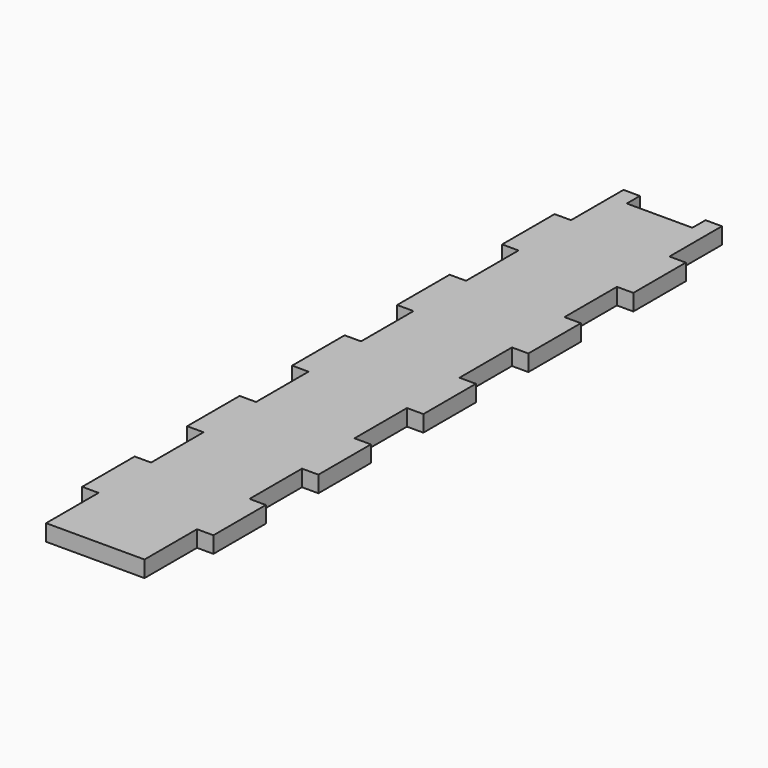
from build123d import *

# Parameters (mm, degrees)
F0_W     = 38.1
F0_H     = 279.4
F1_DEPTH = 6.35
F2_W     = 25.4
F2_H     = 6.35
F4_DEPTH = 6.35
F3_W     = 25.4
F3_H     = 6.35
F5_DEPTH = 6.35
F6_W     = 25.4
F6_H     = 6.35
F7_DEPTH = 6.35


with BuildPart() as f1:
    # F0 (on Top) → F1 (new body)
    with BuildSketch(Plane.XY):
        with Locations((19.05, 139.7)):
            Rectangle(F0_W, F0_H)
    extrude(amount=F1_DEPTH)

    # F2 (on face) → F4 (join)
    with BuildSketch(Plane.YZ.offset(38.1)):
        with Locations((241.3, 3.175)):
            Rectangle(F2_W, F2_H)
        with Locations((190.5, 3.175)):
            Rectangle(F2_W, F2_H)
        with Locations((139.7, 3.175)):
            Rectangle(F2_W, F2_H)
        with Locations((88.9, 3.175)):
            Rectangle(F2_W, F2_H)
        with Locations((38.1, 3.175)):
            Rectangle(F2_W, F2_H)
    extrude(amount=F4_DEPTH)

    # F3 (on face) → F5 (join)
    with BuildSketch(Plane(origin=(0, 0, 0), x_dir=(0, -1, 0), z_dir=(-1, 0, 0))):
        with Locations((-38.1, 3.175)):
            Rectangle(F3_W, F3_H)
        with Locations((-88.9, 3.175)):
            Rectangle(F3_W, F3_H)
        with Locations((-139.7, 3.175)):
            Rectangle(F3_W, F3_H)
        with Locations((-190.5, 3.175)):
            Rectangle(F3_W, F3_H)
        with Locations((-241.3, 3.175)):
            Rectangle(F3_W, F3_H)
    extrude(amount=F5_DEPTH)

    # F6 (on face) → F7 (cut)
    with BuildSketch(Plane(origin=(0, 279.4, 0), x_dir=(-1, 0, 0), z_dir=(0, 1, 0))):
        with Locations((-19.05, 3.175)):
            Rectangle(F6_W, F6_H)
    extrude(amount=-F7_DEPTH, mode=Mode.SUBTRACT)


solid = f1.part
